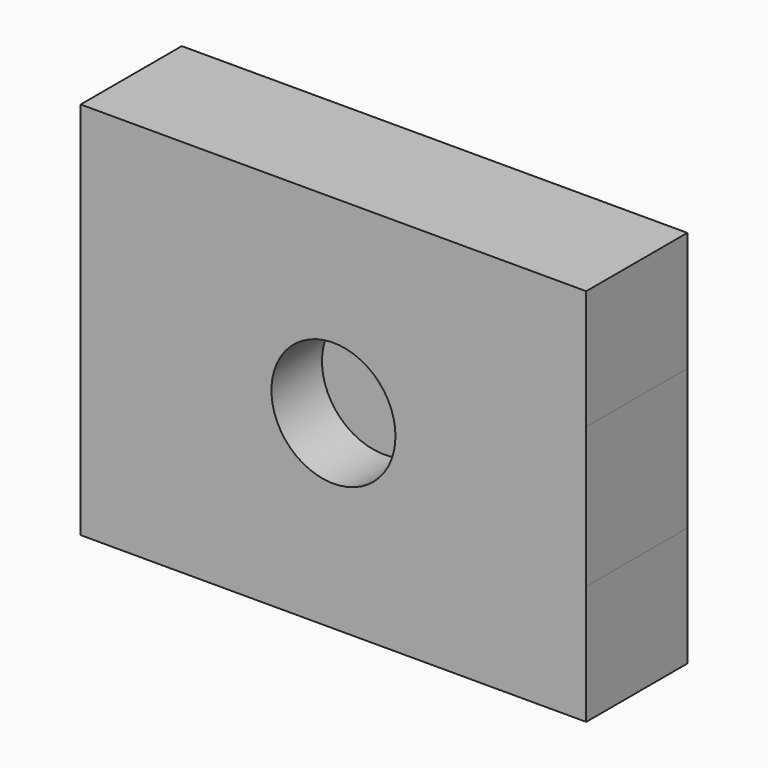
from build123d import *

# Parameters (mm, degrees)
F0_W     = 25.009561
F0_H     = 111.170032
F0_W_2   = 80
F0_H_2   = 100
F1_DEPTH = 100
F2_R     = 49.074517
F3_DEPTH = 50


with BuildPart() as f1:
    # F0 (on Front) → F1 (new body)
    with BuildSketch(Plane.XZ):
        Polygon((200, 55.585016), (200, 150), (-200, 150), (-200, 50), (-120, 50), (-120, -50), (-200, -50), (-200, -150), (200, -150), (200, -55.585016), (174.990439, -55.585016), (174.990439, 55.585016), align=None)
        with Locations((187.495219, 0)):
            Rectangle(F0_W, F0_H)
        with Locations((-160, 0)):
            Rectangle(F0_W_2, F0_H_2)
    extrude(amount=F1_DEPTH)

    # F2 (on face) → F3 (cut)
    with BuildSketch(Plane.XZ.offset(100)):
        Circle(F2_R)
    extrude(amount=-F3_DEPTH, mode=Mode.SUBTRACT)


solid = f1.part
